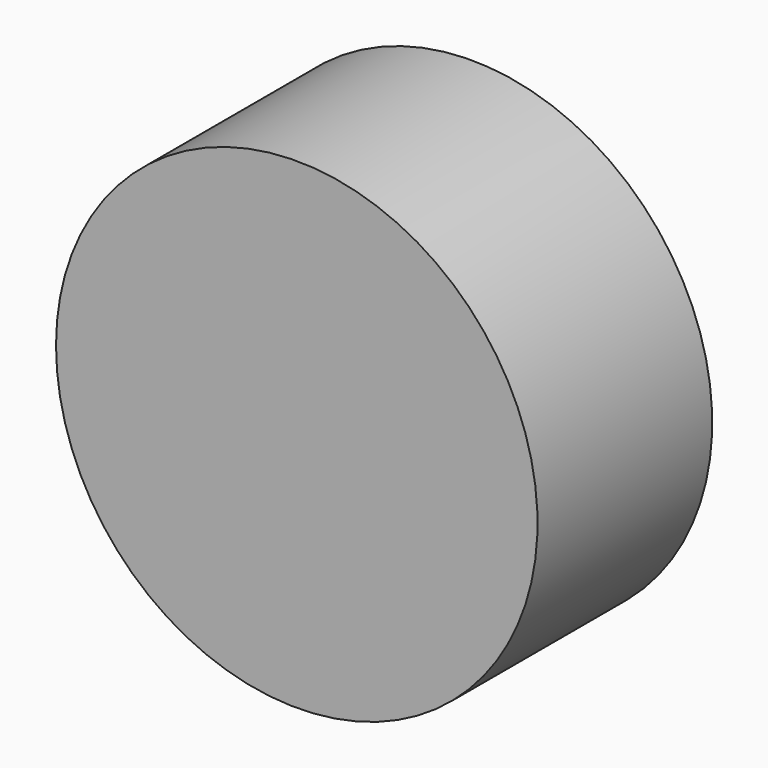
from build123d import *

# Parameters (mm, degrees)
F1_DEPTH = 6.35


with BuildPart() as f1:
    # F0 (on Front) → F1 (new body)
    with BuildSketch(Plane.XZ):
        with BuildLine():
            Line((-7, 0), (7, 0))
            ThreePointArc((7, 0), (0, 7), (-7, 0))
        make_face()
        with BuildLine():
            ThreePointArc((-7, 0), (0, -7), (7, 0))
            Line((7, 0), (-7, 0))
        make_face()
    extrude(amount=F1_DEPTH)


solid = f1.part
